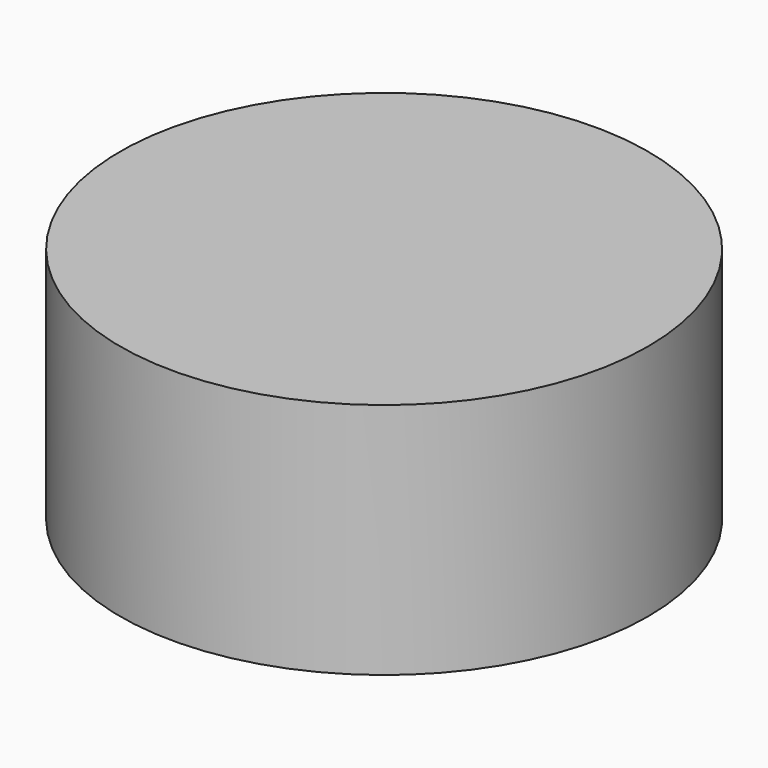
from build123d import *

# Parameters (mm, degrees)
F0_R     = 5.641927486
F0_W     = 3.3217752267
F0_H     = 3.2844081407
F1_DEPTH = 5.08


with BuildPart() as f1:
    # F0 (on Top) → F1 (new body)
    with BuildSketch(Plane.XY):
        with Locations((7.1242708232, 30.9962347264)):
            Circle(F0_R)
        Polygon((3.8024955965, 30.9962347264), (3.8024955965, 34.2806428671), (7.1242708232, 34.2806428671), (10.7207624242, 34.2806428671), (10.7207624242, 27.4353437126), (3.8024955965, 27.4353437126), align=None, mode=Mode.SUBTRACT)
        Polygon((10.7207624242, 34.2806428671), (7.1242708232, 34.2806428671), (7.1242708232, 30.9962347264), (3.8024955965, 30.9962347264), (3.8024955965, 27.4353437126), (10.7207624242, 27.4353437126), align=None)
        with Locations((5.4633832098, 32.6384387968)):
            Rectangle(F0_W, F0_H)
    extrude(amount=F1_DEPTH)


solid = f1.part
